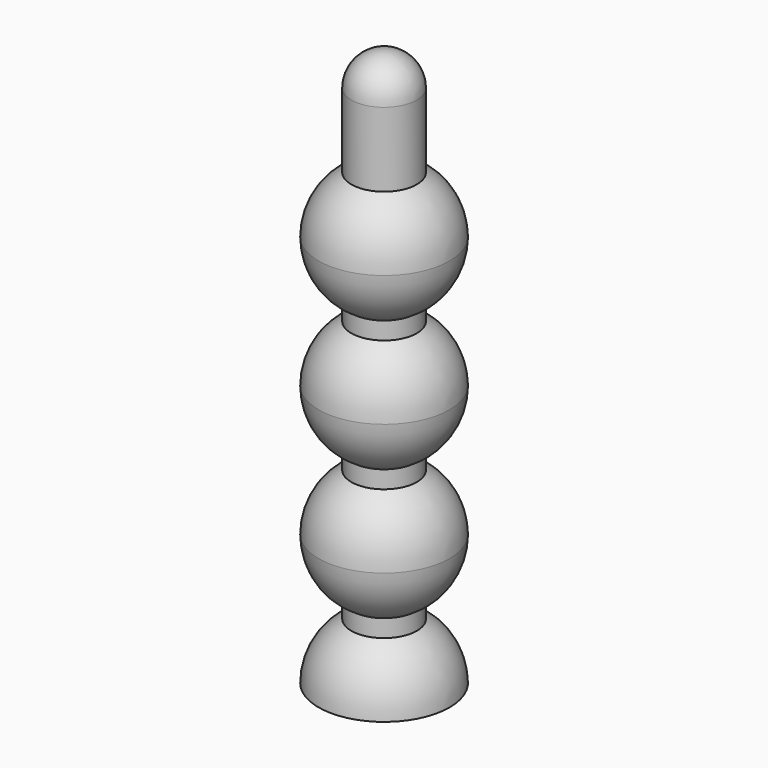
from build123d import *


with BuildPart() as f1:
    # F0 (on Front) → F1 (revolve)
    with BuildSketch(Plane.XZ):
        with BuildLine():
            Line((1.5875, 0), (3.175, 0))
            ThreePointArc((3.175, 0), (2.749630657, 1.5875), (1.5875, 2.749630657))
            Line((1.5875, 2.749630657), (1.5875, 0))
        make_face()
        with BuildLine():
            Line((1.5875, 0), (1.5875, 2.749630657))
            ThreePointArc((1.5875, 2.749630657), (0.8217504682, 3.0668144985), (0, 3.175))
            Line((0, 3.175), (0, 1.5875))
            ThreePointArc((0, 1.5875), (1.1225320151, 1.1225320151), (1.5875, 0))
        make_face()
        with BuildLine():
            ThreePointArc((0, 3.175), (0.8217504682, 3.0668144985), (1.5875, 2.749630657))
            Line((1.5875, 2.749630657), (1.5875, 3.600369343))
            ThreePointArc((1.5875, 3.600369343), (0.8217504682, 3.2831855015), (0, 3.175))
        make_face()
        with BuildLine():
            Line((0, 9.525), (0, 3.175))
            ThreePointArc((0, 3.175), (0.8217504682, 3.2831855015), (1.5875, 3.600369343))
            Line((1.5875, 3.600369343), (1.5875, 9.099630657))
            ThreePointArc((1.5875, 9.099630657), (0.8217504682, 9.4168144985), (0, 9.525))
        make_face()
        with BuildLine():
            Line((1.5875, 9.099630657), (1.5875, 3.600369343))
            ThreePointArc((1.5875, 3.600369343), (2.749630657, 4.7625), (3.175, 6.35))
            ThreePointArc((3.175, 6.35), (2.749630657, 7.9375), (1.5875, 9.099630657))
        make_face()
        with BuildLine():
            ThreePointArc((1.5875, 9.950369343), (0.8217504682, 9.6331855015), (0, 9.525))
            ThreePointArc((0, 9.525), (0.8217504682, 9.4168144985), (1.5875, 9.099630657))
            Line((1.5875, 9.099630657), (1.5875, 9.950369343))
        make_face()
        with BuildLine():
            Line((0, 15.875), (0, 9.525))
            ThreePointArc((0, 9.525), (0.8217504682, 9.6331855015), (1.5875, 9.950369343))
            Line((1.5875, 9.950369343), (1.5875, 15.449630657))
            ThreePointArc((1.5875, 15.449630657), (0.8217504682, 15.7668144985), (0, 15.875))
        make_face()
        with BuildLine():
            ThreePointArc((1.5875, 16.300369343), (0.8217504682, 15.9831855015), (0, 15.875))
            ThreePointArc((0, 15.875), (0.8217504682, 15.7668144985), (1.5875, 15.449630657))
            Line((1.5875, 15.449630657), (1.5875, 16.300369343))
        make_face()
        with BuildLine():
            Line((0, 22.225), (0, 15.875))
            ThreePointArc((0, 15.875), (0.8217504682, 15.9831855015), (1.5875, 16.300369343))
            Line((1.5875, 16.300369343), (1.5875, 21.799630657))
            ThreePointArc((1.5875, 21.799630657), (0.8217504682, 22.1168144985), (0, 22.225))
        make_face()
        with BuildLine():
            Line((1.5875, 21.799630657), (1.5875, 16.300369343))
            ThreePointArc((1.5875, 16.300369343), (2.749630657, 17.4625), (3.175, 19.05))
            ThreePointArc((3.175, 19.05), (2.749630657, 20.6375), (1.5875, 21.799630657))
        make_face()
        with BuildLine():
            Line((0, 23.8125), (0, 22.225))
            ThreePointArc((0, 22.225), (0.8217504682, 22.1168144985), (1.5875, 21.799630657))
            Line((1.5875, 21.799630657), (1.5875, 25.4))
            ThreePointArc((1.5875, 25.4), (1.1225320151, 24.2774679849), (0, 23.8125))
        make_face()
        with BuildLine():
            Line((0, 25.4), (0, 23.8125))
            ThreePointArc((0, 23.8125), (1.1225320151, 24.2774679849), (1.5875, 25.4))
            Line((1.5875, 25.4), (0, 25.4))
        make_face()
        with BuildLine():
            Line((0, 25.4), (1.5875, 25.4))
            ThreePointArc((1.5875, 25.4), (1.1225320151, 26.5225320151), (0, 26.9875))
            Line((0, 26.9875), (0, 25.4))
        make_face()
        with BuildLine():
            Line((1.5875, 15.449630657), (1.5875, 9.950369343))
            ThreePointArc((1.5875, 9.950369343), (2.749630657, 11.1125), (3.175, 12.7))
            ThreePointArc((3.175, 12.7), (2.749630657, 14.2875), (1.5875, 15.449630657))
        make_face()
    revolve(axis=Axis((0, 0, 12.7), (0, 0, -1)))


solid = f1.part
